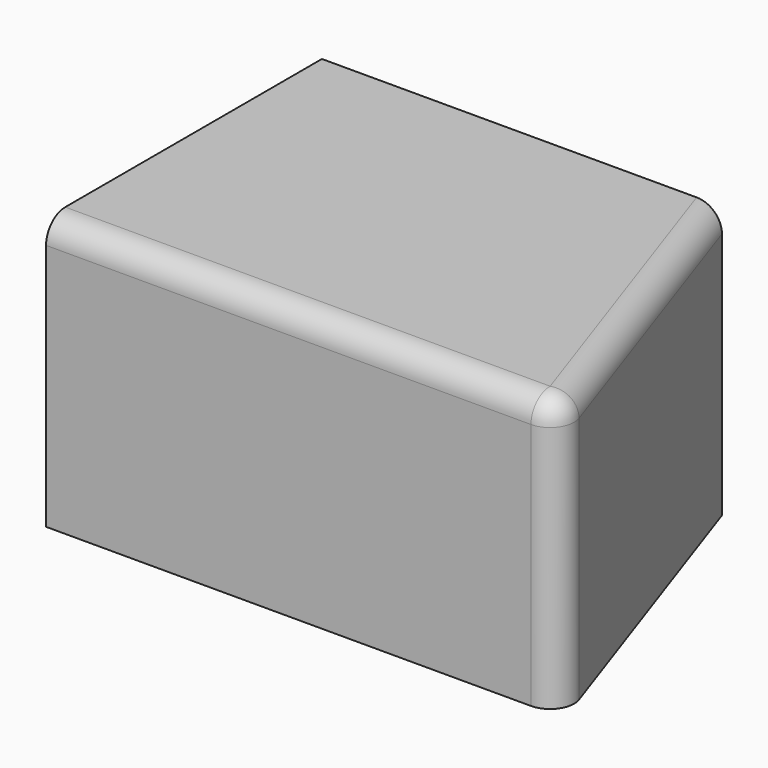
from build123d import *

# Parameters (mm, degrees)
F1_DEPTH = 57.658
F2_R     = 5.08


with BuildPart() as f1:
    # F0 (on Top) → F1 (new body)
    with BuildSketch(Plane.XY):
        Polygon((-110.002019, 0), (0, 0), (-25.127783, 73.158786), (-110.002019, 73.158786), align=None)
    extrude(amount=F1_DEPTH)

    # F2
    f2_edges = [f1.edges().sort_by_distance(p)[0] for p in [
        (-55.001009, 0, 57.658),
        (-12.563892, 36.579393, 57.658),
        (0, 0, 28.829),
    ]]
    fillet(f2_edges, radius=F2_R)


solid = f1.part
